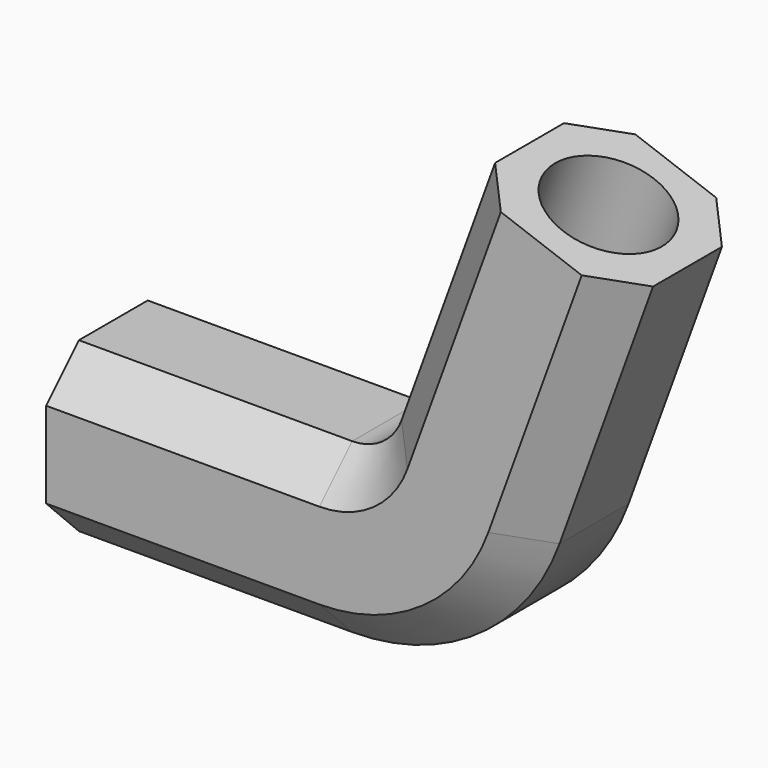
from build123d import *

# Parameters (mm, degrees)
F1_W    = 12.3
F1_H    = 12.3
F1_R    = 4.15
F3_SIZE = 3


with BuildPart() as f2:
    # F2: sweep along a path in F0
    with BuildLine(Plane.XZ) as f2_path:
        Line((0, 0), (20, 0))
        ThreePointArc((20, 0), (25.7357643635, 1.8084795571), (29.3969262079, 6.5797985667))
        Line((29.3969262079, 6.5797985667), (36.2373290744, 25.3736509825))
    # F1 (on Right) → F2 (sweep)
    with BuildSketch(Plane.YZ):
        Rectangle(F1_W, F1_H)
        Circle(F1_R, mode=Mode.SUBTRACT)
    sweep(path=f2_path.line)

    # F3
    f3_edges = [f2.edges().sort_by_distance(p)[0] for p in [
        (27.038018, -6.15, 18.080149),
        (38.596237, -6.15, 13.873301),
        (38.596237, 6.15, 13.873301),
        (27.038018, 6.15, 18.080149),
    ]]
    chamfer(f3_edges, length=F3_SIZE)


solid = f2.part
